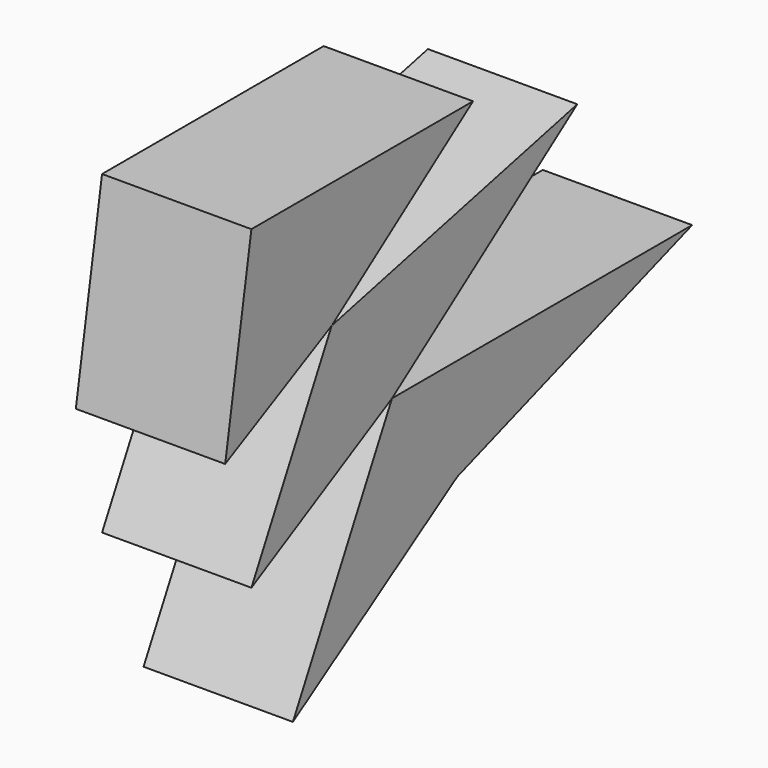
from build123d import *

# Parameters (mm, degrees)
F1_DEPTH = 25.4
F2_DEPTH = 25.4


with BuildPart() as f1:
    # F0 (on Right) → F1 (new body)
    with BuildSketch(Plane.YZ):
        Polygon((-18.537786, 49.629994), (-65.649323, 49.629994), (-48.59299, 28.24089), align=None)
        Polygon((28.049728, 12.152521), (-35.763626, 12.152521), (-21.901455, -5.231017), align=None)
        Polygon((-21.901455, -5.231017), (-35.763626, 12.152521), (-56.827477, -27.725672), align=None)
        Polygon((3.619639, 40.180039), (-48.59299, 28.24089), (-35.763626, 12.152521), align=None)
        Polygon((-35.763626, 12.152521), (-48.59299, 28.24089), (-65.649323, -4.050251), align=None)
        Polygon((-48.59299, 28.24089), (-65.649323, 49.629994), (-71.226753, 16.744107), align=None)
    extrude(amount=F1_DEPTH)


with BuildPart() as f2:
    # F0 (on Right) → F2 (new body)
    with BuildSketch(Plane.YZ):
        Polygon((-18.537786, 49.629994), (-65.649323, 49.629994), (-48.59299, 28.24089), align=None)
        Polygon((28.049728, 12.152521), (-35.763626, 12.152521), (-21.901455, -5.231017), align=None)
        Polygon((-21.901455, -5.231017), (-35.763626, 12.152521), (-56.827477, -27.725672), align=None)
        Polygon((3.619639, 40.180039), (-48.59299, 28.24089), (-35.763626, 12.152521), align=None)
        Polygon((-35.763626, 12.152521), (-48.59299, 28.24089), (-65.649323, -4.050251), align=None)
        Polygon((-48.59299, 28.24089), (-65.649323, 49.629994), (-71.226753, 16.744107), align=None)
    extrude(amount=F2_DEPTH)


solid = Compound([f1.part, f2.part])
